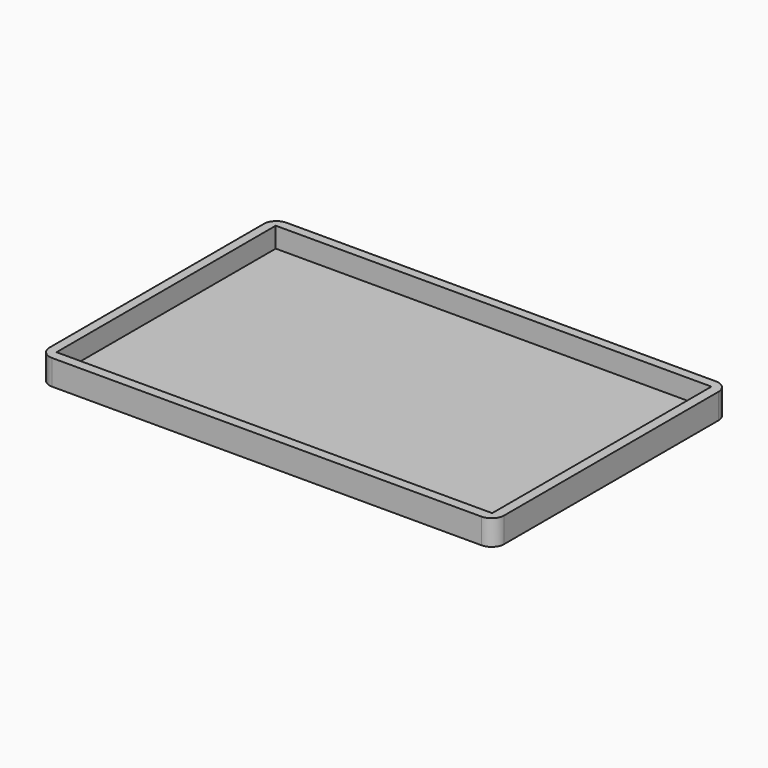
from build123d import *

# Parameters (mm, degrees)
F0_W     = 86.25
F0_H     = 54.25
F1_DEPTH = 5
F2_DEPTH = 1


with BuildPart() as f1:
    # F0 (on Top) → F1 (new body)
    with BuildSketch(Plane.XY):
        with BuildLine():
            ThreePointArc((-43.405657, -24.099012), (-42.673424, -25.866779), (-40.905657, -26.599012))
            Line((-40.905657, -26.599012), (44.094343, -26.599012))
            ThreePointArc((44.094343, -26.599012), (45.86211, -25.866779), (46.594343, -24.099012))
            Line((46.594343, -24.099012), (46.594343, 28.900988))
            ThreePointArc((46.594343, 28.900988), (45.86211, 30.668755), (44.094343, 31.400988))
            Line((44.094343, 31.400988), (-40.905657, 31.400988))
            ThreePointArc((-40.905657, 31.400988), (-42.673424, 30.668755), (-43.405657, 28.900988))
            Line((-43.405657, 28.900988), (-43.405657, -24.099012))
        make_face()
        with Locations((1.538258, 2.464306)):
            Rectangle(F0_W, F0_H, mode=Mode.SUBTRACT)
    extrude(amount=F1_DEPTH)

    # F0 (on Top) → F2 (join)
    with BuildSketch(Plane.XY):
        with Locations((1.538258, 2.464306)):
            Rectangle(F0_W, F0_H)
    extrude(amount=F2_DEPTH)


solid = f1.part
